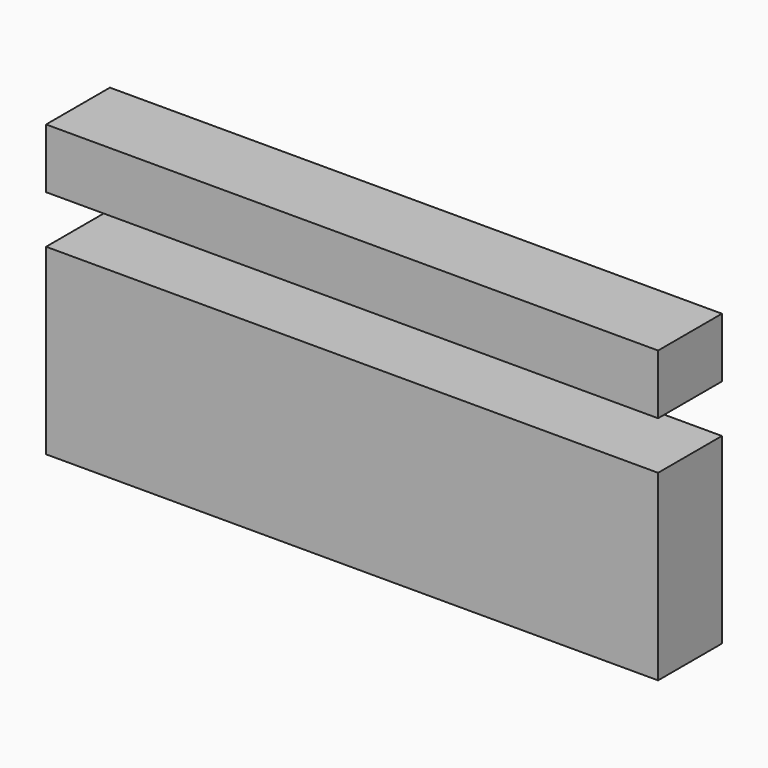
from build123d import *

# Parameters (mm, degrees)
F0_W          = 76.701318
F0_H          = 36.395528
F1_DEPTH      = 10
F2_W          = 10
F2_H          = 6.016562
F3_DEPTH      = 76.701319
F3_DEPTH_BACK = 25.4


with BuildPart() as f1:
    # F0 (on Front) → F1 (new body)
    with BuildSketch(Plane.XZ):
        with Locations((-8.27171, 8.5725)):
            Rectangle(F0_W, F0_H)
    extrude(amount=F1_DEPTH)

    # F2 (on face) → F3 (cut, two sides)
    with BuildSketch(Plane.YZ.offset(30.078949)) as f3_sk:
        with Locations((-5, 16.287875)):
            Rectangle(F2_W, F2_H)
    extrude(amount=-F3_DEPTH, mode=Mode.SUBTRACT)
    extrude(f3_sk.sketch, amount=-F3_DEPTH_BACK, mode=Mode.SUBTRACT)


solid = f1.part
